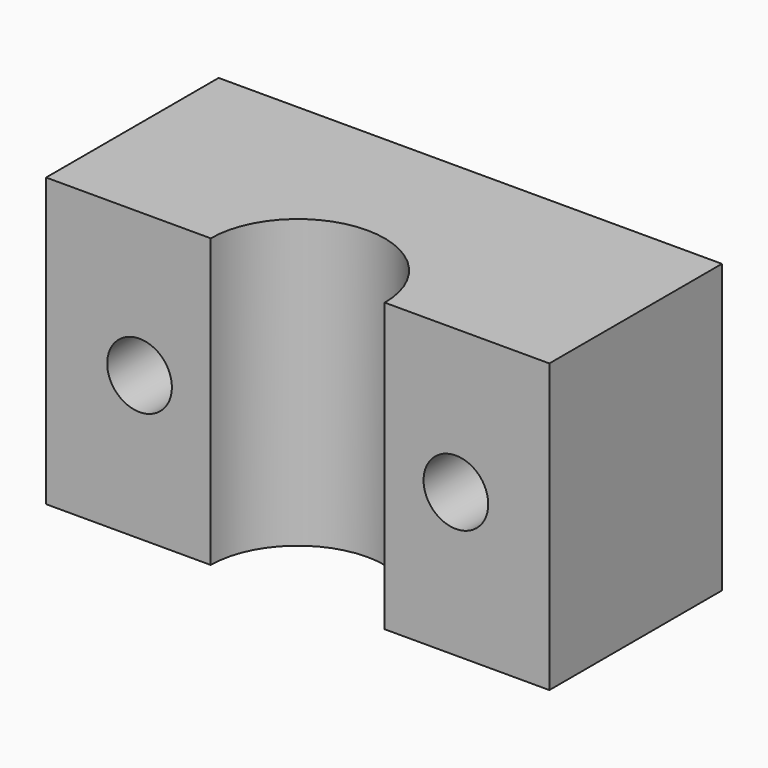
from build123d import *

# Parameters (mm, degrees)
PAD_DEPTH    = 20
SKETCH001_R  = 2.25
POCKET_DEPTH = 15.001


with BuildPart() as part:
    # Sketch → Pad (new body)
    with BuildSketch(Plane.XY):
        with BuildLine():
            Line((-17.5, 15), (17.5, 15))
            Line((17.5, 15), (17.5, 0))
            Line((17.5, 0), (6.05, 0))
            ThreePointArc((6.05, 0), (0, 6.05), (-6.05, 0))
            Line((-17.5, 0), (-6.05, 0))
            Line((-17.5, 0), (-17.5, 15))
        make_face()
    extrude(amount=PAD_DEPTH)

    # Sketch001 → Pocket (cut, through all)
    with BuildSketch(Plane.XZ):
        with Locations((-11, 10)):
            Circle(SKETCH001_R)
        with Locations((11, 10)):
            Circle(SKETCH001_R)
    extrude(amount=-POCKET_DEPTH, mode=Mode.SUBTRACT)


solid = part.part
